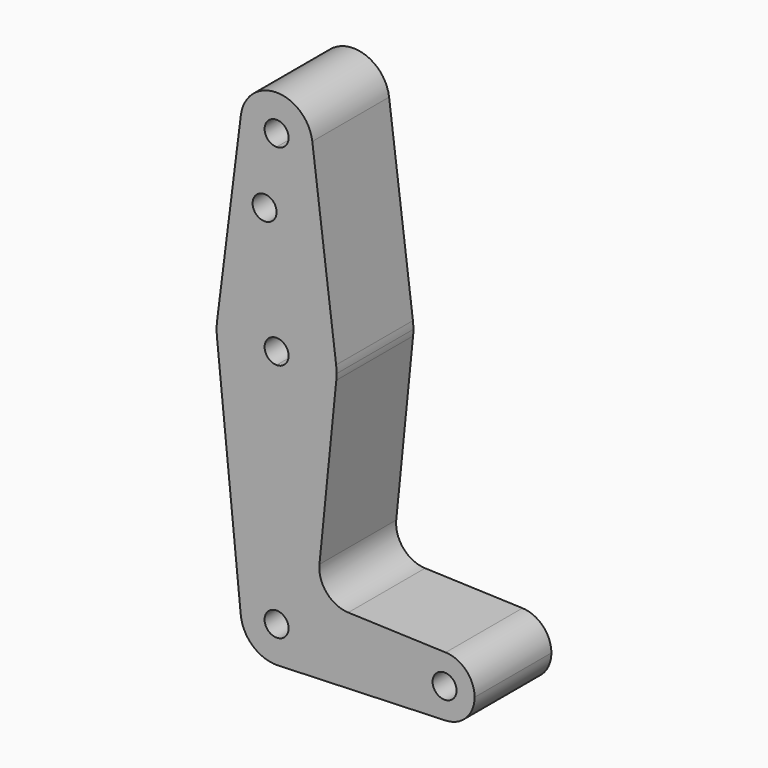
from build123d import *

# Parameters (mm, degrees)
F0_R     = 3.175
F1_DEPTH = 25.4


with BuildPart() as f1:
    # F0 (on Front) → F1 (new body)
    with BuildSketch(Plane.XZ):
        with BuildLine():
            ThreePointArc((-9.4502929642, 51.990625), (-7.14375, 44.4998046905), (0, 41.275))
            ThreePointArc((0, 41.275), (6.7351920908, 44.0648079092), (9.525, 50.8))
            ThreePointArc((9.525, 50.8), (9.5063048942, 51.396483242), (9.4502929642, 51.990625))
            ThreePointArc((9.4502929642, 51.990625), (0, 60.325), (-9.4502929642, 51.990625))
        make_face()
        with BuildLine():
            ThreePointArc((3.175, 50.8), (2.2450640303, 48.5549359697), (0, 47.625))
            ThreePointArc((0, 47.625), (-2.2450640303, 53.0450640303), (3.175, 50.8))
        make_face(mode=Mode.SUBTRACT)
        with BuildLine():
            ThreePointArc((9.525, 50.8), (6.7351920908, 44.0648079092), (0, 41.275))
            Line((0, 41.275), (0, 32.453302294))
            Line((0, 32.453302294), (0, 15.875))
            ThreePointArc((0, 15.875), (10.5003255158, 11.90625), (15.7504882737, 1.984375))
            Line((15.7504882737, 1.984375), (9.4502929642, 51.990625))
            ThreePointArc((9.4502929642, 51.990625), (9.5063048942, 51.396483242), (9.525, 50.8))
        make_face()
        with BuildLine():
            Line((0, 32.453302294), (0, 41.275))
            ThreePointArc((0, 41.275), (-7.14375, 44.4998046905), (-9.4502929642, 51.990625))
            Line((-9.4502929642, 51.990625), (-15.7504882737, 1.984375))
            ThreePointArc((-15.7504882737, 1.984375), (-10.5003255158, 11.90625), (0, 15.875))
            Line((0, 15.875), (0, 32.453302294))
        make_face()
        with Locations((-3.175, 32.453302294)):
            Circle(F0_R, mode=Mode.SUBTRACT)
        with BuildLine():
            ThreePointArc((15.7504882737, 1.984375), (10.5003255158, 11.90625), (0, 15.875))
            Line((0, 15.875), (0, 3.175))
            ThreePointArc((0, 3.175), (2.2450640303, 2.2450640303), (3.175, 0))
            ThreePointArc((3.175, 0), (2.2450640303, -2.2450640303), (0, -3.175))
            Line((0, -3.175), (0, -15.875))
            ThreePointArc((0, -15.875), (10.6492737428, -11.7732150983), (15.7954255641, -1.5875))
            ThreePointArc((15.7954255641, -1.5875), (15.8550939106, -0.7947465541), (15.875, 0))
            ThreePointArc((15.875, 0), (15.8438414904, 0.9941387366), (15.7504882737, 1.984375))
        make_face()
        with BuildLine():
            Line((0, 3.175), (0, 15.875))
            ThreePointArc((0, 15.875), (-10.5003255158, 11.90625), (-15.7504882737, 1.984375))
            ThreePointArc((-15.7504882737, 1.984375), (-15.8737438155, 0.1997054867), (-15.7954255641, -1.5875))
            ThreePointArc((-15.7954255641, -1.5875), (-10.6492737428, -11.7732150983), (0, -15.875))
            Line((0, -15.875), (0, -3.175))
            ThreePointArc((0, -3.175), (-3.175, 0), (0, 3.175))
        make_face()
        with BuildLine():
            ThreePointArc((0, -15.875), (-10.6492737428, -11.7732150983), (-15.7954255641, -1.5875))
            Line((-15.7954255641, -1.5875), (-9.4772553384, -64.4525))
            ThreePointArc((-9.4772553384, -64.4525), (-7.063929059, -57.1104357543), (0, -53.975))
            Line((0, -53.975), (0, -15.875))
        make_face()
        with BuildLine():
            ThreePointArc((15.7954255641, -1.5875), (10.6492737428, -11.7732150983), (0, -15.875))
            Line((0, -15.875), (0, -53.975))
            ThreePointArc((0, -53.975), (6.7351920908, -56.7648079092), (9.525, -63.5))
            Line((9.525, -63.5), (36.5125, -63.5))
            ThreePointArc((36.5125, -63.5), (38.9384772185, -57.7879930953), (44.7334821429, -55.5675637964))
            Line((44.7334821429, -55.5675637964), (18.9676000005, -54.6467662892))
            ThreePointArc((18.9676000005, -54.6467662892), (13.2611998974, -51.9286408502), (11.3411865923, -45.9066181876))
            Line((11.3411865923, -45.9066181876), (15.7954255641, -1.5875))
        make_face()
        with BuildLine():
            ThreePointArc((0, -53.975), (-7.063929059, -57.1104357543), (-9.4772553384, -64.4525))
            ThreePointArc((-9.4772553384, -64.4525), (-6.2623831479, -70.6769201131), (0.3401791915, -73.0189234222))
            ThreePointArc((0.3401791915, -73.0189234222), (6.8544085011, -70.1138271145), (9.525, -63.5))
            Line((9.525, -63.5), (3.175, -63.5))
            ThreePointArc((3.175, -63.5), (-2.2450640303, -65.7450640303), (0, -60.325))
            Line((0, -60.325), (0, -53.975))
        make_face()
        with BuildLine():
            ThreePointArc((9.525, -63.5), (6.8544085011, -70.1138271145), (0.3401791915, -73.0189234222))
            Line((0.3401791915, -73.0189234222), (44.7334821429, -71.4324362036))
            ThreePointArc((44.7334821429, -71.4324362036), (38.9384772185, -69.2120069047), (36.5125, -63.5))
            Line((36.5125, -63.5), (9.525, -63.5))
        make_face()
        with BuildLine():
            ThreePointArc((36.5125, -63.5), (38.9384772185, -69.2120069047), (44.7334821429, -71.4324362036))
            ThreePointArc((44.7334821429, -71.4324362036), (50.1620069047, -69.0115227815), (52.3875, -63.5))
            ThreePointArc((52.3875, -63.5), (50.1620069047, -57.9884772185), (44.7334821429, -55.5675637964))
            ThreePointArc((44.7334821429, -55.5675637964), (38.9384772185, -57.7879930953), (36.5125, -63.5))
        make_face()
        with BuildLine():
            ThreePointArc((47.625, -63.5), (44.45, -66.675), (41.275, -63.5))
            ThreePointArc((41.275, -63.5), (44.45, -60.325), (47.625, -63.5))
        make_face(mode=Mode.SUBTRACT)
        with BuildLine():
            ThreePointArc((9.525, -63.5), (6.7351920908, -56.7648079092), (0, -53.975))
            Line((0, -53.975), (0, -60.325))
            ThreePointArc((0, -60.325), (2.2450640303, -61.2549359697), (3.175, -63.5))
            Line((3.175, -63.5), (9.525, -63.5))
        make_face()
    extrude(amount=F1_DEPTH)


solid = f1.part
